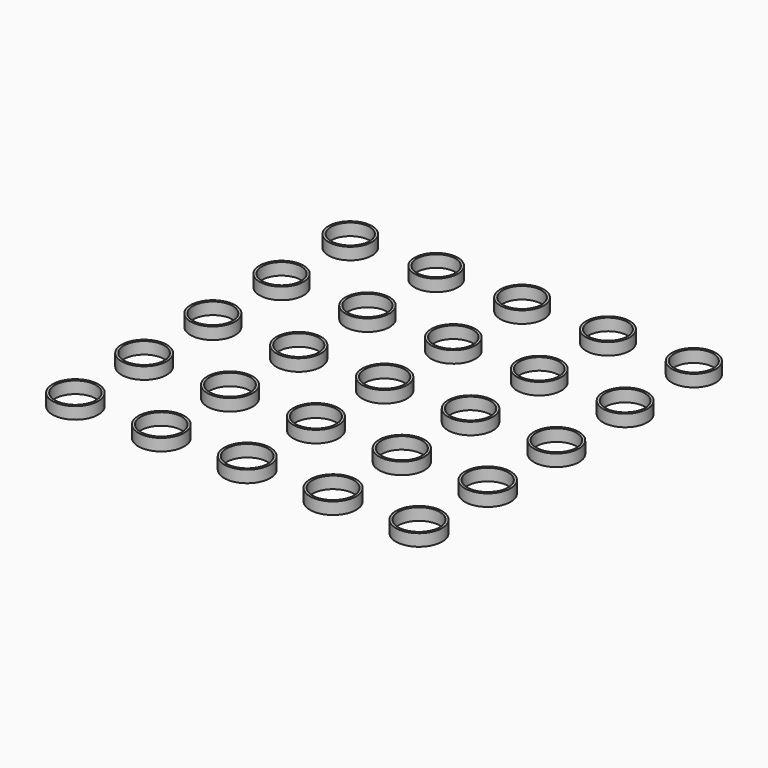
from build123d import *

# Parameters (mm, degrees)
F0_R     = 9.1
F0_R_2   = 8.1
F0_R_3   = 9.125
F0_R_4   = 8.125
F0_R_5   = 9.15
F0_R_6   = 8.15
F0_R_7   = 9.175
F0_R_8   = 8.175
F0_R_9   = 9.2
F0_R_10  = 8.2
F0_R_11  = 9.225
F0_R_12  = 8.225
F0_R_13  = 9.25
F0_R_14  = 8.25
F0_R_15  = 9.275
F0_R_16  = 8.275
F0_R_17  = 9.3
F0_R_18  = 8.3
F0_R_19  = 9.325
F0_R_20  = 8.325
F0_R_21  = 9.35
F0_R_22  = 8.35
F0_R_23  = 9.375
F0_R_24  = 8.375
F0_R_25  = 9.4
F0_R_26  = 8.4
F0_R_27  = 9.425
F0_R_28  = 8.425
F0_R_29  = 9.45
F0_R_30  = 8.45
F0_R_31  = 9.475
F0_R_32  = 8.475
F0_R_33  = 9.5
F0_R_34  = 8.5
F0_R_35  = 9.525
F0_R_36  = 8.525
F0_R_37  = 9.55
F0_R_38  = 8.55
F0_R_39  = 9.575
F0_R_40  = 8.575
F0_R_41  = 9.6
F0_R_42  = 8.6
F0_R_43  = 9.625
F0_R_44  = 8.625
F0_R_45  = 9.65
F0_R_46  = 8.65
F0_R_47  = 9.675
F0_R_48  = 8.675
F0_R_49  = 9.7
F0_R_50  = 8.7
F1_DEPTH = 5


with BuildPart() as f1:
    # F0 (on Top) → F1 (new body)
    with BuildSketch(Plane.XY):
        with Locations((-72, 72)):
            Circle(F0_R)
        with Locations((-72, 72)):
            Circle(F0_R_2, mode=Mode.SUBTRACT)
        with Locations((-36, 72)):
            Circle(F0_R_3)
        with Locations((-36, 72)):
            Circle(F0_R_4, mode=Mode.SUBTRACT)
        with Locations((0, 72)):
            Circle(F0_R_5)
        with Locations((0, 72)):
            Circle(F0_R_6, mode=Mode.SUBTRACT)
        with Locations((36, 72)):
            Circle(F0_R_7)
        with Locations((36, 72)):
            Circle(F0_R_8, mode=Mode.SUBTRACT)
        with Locations((72, 72)):
            Circle(F0_R_9)
        with Locations((72, 72)):
            Circle(F0_R_10, mode=Mode.SUBTRACT)
        with Locations((-72, 36)):
            Circle(F0_R_11)
        with Locations((-72, 36)):
            Circle(F0_R_12, mode=Mode.SUBTRACT)
        with Locations((-36, 36)):
            Circle(F0_R_13)
        with Locations((-36, 36)):
            Circle(F0_R_14, mode=Mode.SUBTRACT)
        with Locations((0, 36)):
            Circle(F0_R_15)
        with Locations((0, 36)):
            Circle(F0_R_16, mode=Mode.SUBTRACT)
        with Locations((36, 36)):
            Circle(F0_R_17)
        with Locations((36, 36)):
            Circle(F0_R_18, mode=Mode.SUBTRACT)
        with Locations((72, 36)):
            Circle(F0_R_19)
        with Locations((72, 36)):
            Circle(F0_R_20, mode=Mode.SUBTRACT)
        with Locations((-72, 0)):
            Circle(F0_R_21)
        with Locations((-72, 0)):
            Circle(F0_R_22, mode=Mode.SUBTRACT)
        with Locations((-36, 0)):
            Circle(F0_R_23)
        with Locations((-36, 0)):
            Circle(F0_R_24, mode=Mode.SUBTRACT)
        Circle(F0_R_25)
        Circle(F0_R_26, mode=Mode.SUBTRACT)
        with Locations((36, 0)):
            Circle(F0_R_27)
        with Locations((36, 0)):
            Circle(F0_R_28, mode=Mode.SUBTRACT)
        with Locations((72, 0)):
            Circle(F0_R_29)
        with Locations((72, 0)):
            Circle(F0_R_30, mode=Mode.SUBTRACT)
        with Locations((-72, -36)):
            Circle(F0_R_31)
        with Locations((-72, -36)):
            Circle(F0_R_32, mode=Mode.SUBTRACT)
        with Locations((-36, -36)):
            Circle(F0_R_33)
        with Locations((-36, -36)):
            Circle(F0_R_34, mode=Mode.SUBTRACT)
        with Locations((0, -36)):
            Circle(F0_R_35)
        with Locations((0, -36)):
            Circle(F0_R_36, mode=Mode.SUBTRACT)
        with Locations((36, -36)):
            Circle(F0_R_37)
        with Locations((36, -36)):
            Circle(F0_R_38, mode=Mode.SUBTRACT)
        with Locations((72, -36)):
            Circle(F0_R_39)
        with Locations((72, -36)):
            Circle(F0_R_40, mode=Mode.SUBTRACT)
        with Locations((-72, -72)):
            Circle(F0_R_41)
        with Locations((-72, -72)):
            Circle(F0_R_42, mode=Mode.SUBTRACT)
        with Locations((-36, -72)):
            Circle(F0_R_43)
        with Locations((-36, -72)):
            Circle(F0_R_44, mode=Mode.SUBTRACT)
        with Locations((0, -72)):
            Circle(F0_R_45)
        with Locations((0, -72)):
            Circle(F0_R_46, mode=Mode.SUBTRACT)
        with Locations((36, -72)):
            Circle(F0_R_47)
        with Locations((36, -72)):
            Circle(F0_R_48, mode=Mode.SUBTRACT)
        with Locations((72, -72)):
            Circle(F0_R_49)
        with Locations((72, -72)):
            Circle(F0_R_50, mode=Mode.SUBTRACT)
    extrude(amount=F1_DEPTH)


solid = f1.part
